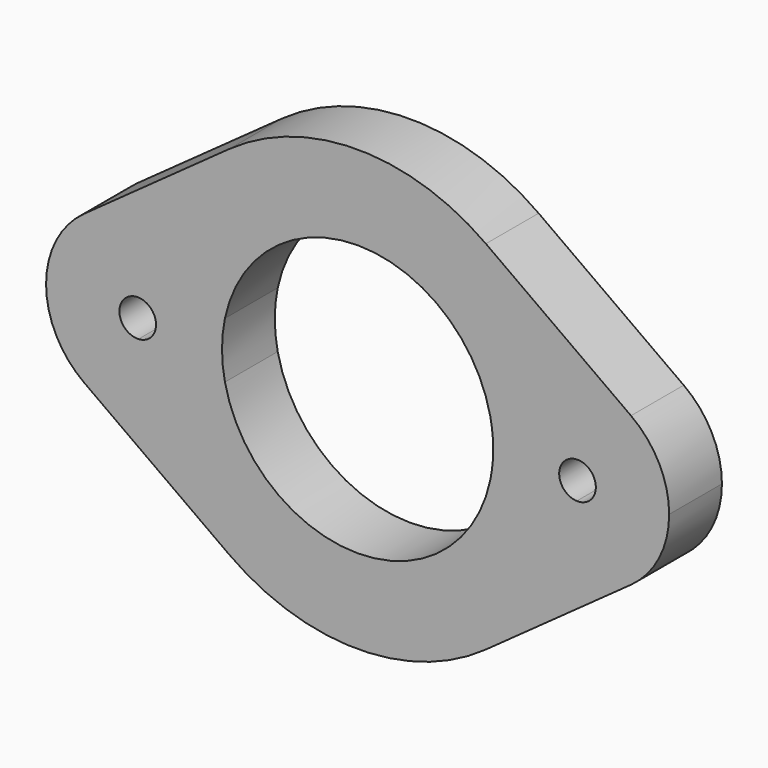
from build123d import *

# Parameters (mm, degrees)
F1_DEPTH = 9


with BuildPart() as f1:
    # F0 (on Front) → F1 (new body)
    with BuildSketch(Plane.XZ):
        with BuildLine():
            ThreePointArc((37.2916666667, -10.1529107758), (32.5626748227, -12.2344880462), (27.3958333333, -12.2257235357))
            ThreePointArc((27.3958333333, -12.2257235357), (23.2542797221, -18.953587381), (17.5, -24.366985862))
            Line((17.5, -24.366985862), (37.2916666667, -10.1529107758))
        make_face()
        with BuildLine():
            ThreePointArc((-29.8958333333, 2.4978289184), (-29.0558384973, 7.4671446496), (-27.3958333333, 12.2257235357))
            ThreePointArc((-27.3958333333, 12.2257235357), (-32.5626748227, 12.2344880462), (-37.2916666667, 10.1529107758))
            ThreePointArc((-37.2916666667, 10.1529107758), (-42.5, 0), (-37.2916666667, -10.1529107758))
            ThreePointArc((-37.2916666667, -10.1529107758), (-32.5626748227, -12.2344880462), (-27.3958333333, -12.2257235357))
            ThreePointArc((-27.3958333333, -12.2257235357), (-29.0558384973, -7.4671446496), (-29.8958333333, -2.4978289184))
            ThreePointArc((-29.8958333333, -2.4978289184), (-32.5, 0), (-29.8958333333, 2.4978289184))
        make_face()
        with BuildLine():
            ThreePointArc((27.3958333333, -12.2257235357), (21.6196297604, -9.2746641259), (18.1, -3.8262252939))
            ThreePointArc((18.1, -3.8262252939), (0, -18.5), (-18.1, -3.8262252939))
            ThreePointArc((-18.1, -3.8262252939), (-21.6196297604, -9.2746641259), (-27.3958333333, -12.2257235357))
            ThreePointArc((-27.3958333333, -12.2257235357), (-23.2542797221, -18.953587381), (-17.5, -24.366985862))
            ThreePointArc((-17.5, -24.366985862), (0, -30), (17.5, -24.366985862))
            ThreePointArc((17.5, -24.366985862), (23.2542797221, -18.953587381), (27.3958333333, -12.2257235357))
        make_face()
        with BuildLine():
            ThreePointArc((18.1, 3.8262252939), (18.3997282589, 1.9235384062), (18.5, 0))
            ThreePointArc((18.5, 0), (18.3997282589, -1.9235384062), (18.1, -3.8262252939))
            ThreePointArc((18.1, -3.8262252939), (21.6196297604, -9.2746641259), (27.3958333333, -12.2257235357))
            ThreePointArc((27.3958333333, -12.2257235357), (29.0558384973, -7.4671446496), (29.8958333333, -2.4978289184))
            ThreePointArc((29.8958333333, -2.4978289184), (27.5, 0), (29.8958333333, 2.4978289184))
            ThreePointArc((29.8958333333, 2.4978289184), (29.0558384973, 7.4671446496), (27.3958333333, 12.2257235357))
            ThreePointArc((27.3958333333, 12.2257235357), (21.6196297604, 9.2746641259), (18.1, 3.8262252939))
        make_face()
        with BuildLine():
            ThreePointArc((17.5, 24.366985862), (23.2542797221, 18.953587381), (27.3958333333, 12.2257235357))
            ThreePointArc((27.3958333333, 12.2257235357), (32.5626748227, 12.2344880462), (37.2916666667, 10.1529107758))
            Line((37.2916666667, 10.1529107758), (17.5, 24.366985862))
        make_face()
        with BuildLine():
            ThreePointArc((-37.2916666667, 10.1529107758), (-32.5626748227, 12.2344880462), (-27.3958333333, 12.2257235357))
            ThreePointArc((-27.3958333333, 12.2257235357), (-23.2542797221, 18.953587381), (-17.5, 24.366985862))
            Line((-17.5, 24.366985862), (-37.2916666667, 10.1529107758))
        make_face()
        with BuildLine():
            ThreePointArc((37.2916666667, 10.1529107758), (32.5626748227, 12.2344880462), (27.3958333333, 12.2257235357))
            ThreePointArc((27.3958333333, 12.2257235357), (29.0558384973, 7.4671446496), (29.8958333333, 2.4978289184))
            ThreePointArc((29.8958333333, 2.4978289184), (31.7305466381, 1.8042195912), (32.5, 0))
            ThreePointArc((32.5, 0), (31.7305466381, -1.8042195912), (29.8958333333, -2.4978289184))
            ThreePointArc((29.8958333333, -2.4978289184), (29.0558384973, -7.4671446496), (27.3958333333, -12.2257235357))
            ThreePointArc((27.3958333333, -12.2257235357), (32.5626748227, -12.2344880462), (37.2916666667, -10.1529107758))
            ThreePointArc((37.2916666667, -10.1529107758), (41.1219565125, -5.7054433073), (42.5, 0))
            ThreePointArc((42.5, 0), (41.1219565125, 5.7054433073), (37.2916666667, 10.1529107758))
        make_face()
        with BuildLine():
            ThreePointArc((-17.5, -24.366985862), (-23.2542797221, -18.953587381), (-27.3958333333, -12.2257235357))
            ThreePointArc((-27.3958333333, -12.2257235357), (-32.5626748227, -12.2344880462), (-37.2916666667, -10.1529107758))
            Line((-37.2916666667, -10.1529107758), (-17.5, -24.366985862))
        make_face()
        with BuildLine():
            ThreePointArc((-18.1, -3.8262252939), (-18.5, 0), (-18.1, 3.8262252939))
            ThreePointArc((-18.1, 3.8262252939), (-21.6196297604, 9.2746641259), (-27.3958333333, 12.2257235357))
            ThreePointArc((-27.3958333333, 12.2257235357), (-29.0558384973, 7.4671446496), (-29.8958333333, 2.4978289184))
            ThreePointArc((-29.8958333333, 2.4978289184), (-28.1957804088, 1.7305466381), (-27.5, 0))
            ThreePointArc((-27.5, 0), (-28.1957804088, -1.7305466381), (-29.8958333333, -2.4978289184))
            ThreePointArc((-29.8958333333, -2.4978289184), (-29.0558384973, -7.4671446496), (-27.3958333333, -12.2257235357))
            ThreePointArc((-27.3958333333, -12.2257235357), (-21.6196297604, -9.2746641259), (-18.1, -3.8262252939))
        make_face()
        with BuildLine():
            ThreePointArc((-18.1, 3.8262252939), (0, 18.5), (18.1, 3.8262252939))
            ThreePointArc((18.1, 3.8262252939), (21.6196297604, 9.2746641259), (27.3958333333, 12.2257235357))
            ThreePointArc((27.3958333333, 12.2257235357), (23.2542797221, 18.953587381), (17.5, 24.366985862))
            ThreePointArc((17.5, 24.366985862), (0, 30), (-17.5, 24.366985862))
            ThreePointArc((-17.5, 24.366985862), (-23.2542797221, 18.953587381), (-27.3958333333, 12.2257235357))
            ThreePointArc((-27.3958333333, 12.2257235357), (-21.6196297604, 9.2746641259), (-18.1, 3.8262252939))
        make_face()
    extrude(amount=F1_DEPTH)


solid = f1.part
